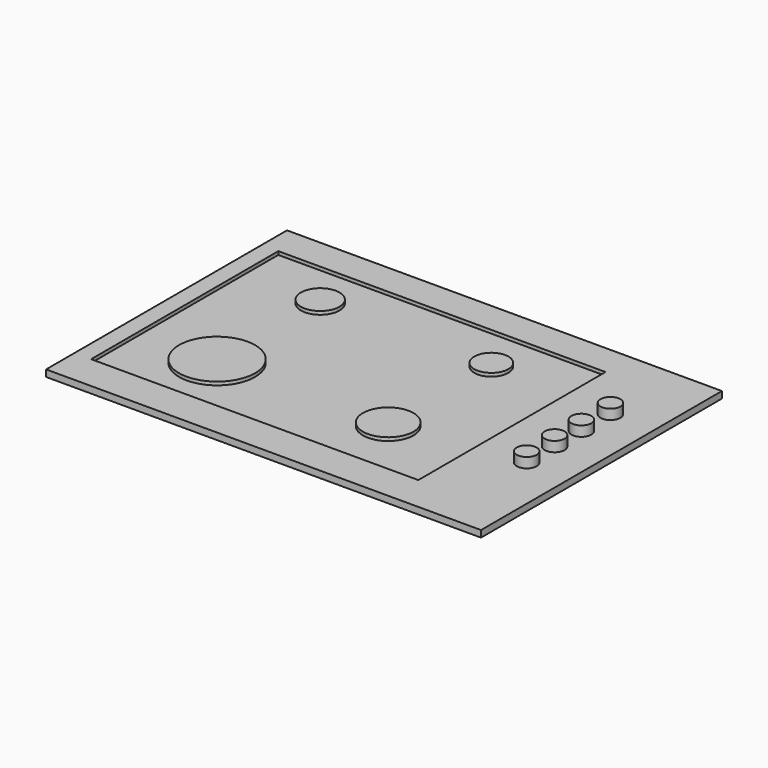
from build123d import *

# Parameters (mm, degrees)
F0_W     = 650
F0_H     = 450
F0_R     = 14.865454
F0_W_2   = 488.997654
F0_H_2   = 349.666808
F1_DEPTH = 10
F0_R_2   = 56.832951
F0_R_3   = 37.769343
F0_R_4   = 28.854156
F0_R_5   = 25.491264
F2_DEPTH = 5
F3_DEPTH = 10
F4_DEPTH = 25


with BuildPart() as f1:
    # F0 (on Top) → F1 (new body)
    with BuildSketch(Plane.XY):
        with Locations((36.786486, -131.776476)):
            Rectangle(F0_W, F0_H)
        with Locations((296.833038, -190.268785)):
            Circle(F0_R, mode=Mode.SUBTRACT)
        with Locations((296.833038, -138.121739)):
            Circle(F0_R, mode=Mode.SUBTRACT)
        with Locations((-18.782042, -128.970219)):
            Rectangle(F0_W_2, F0_H_2, mode=Mode.SUBTRACT)
        with Locations((296.833038, -88.088758)):
            Circle(F0_R, mode=Mode.SUBTRACT)
        with Locations((296.833038, -33.827644)):
            Circle(F0_R, mode=Mode.SUBTRACT)
    extrude(amount=F1_DEPTH)

    # F0 (on Top) → F2 (join)
    with BuildSketch(Plane.XY):
        with Locations((-18.782042, -128.970219)):
            Rectangle(F0_W_2, F0_H_2)
        with Locations((-148.592174, -211.847812)):
            Circle(F0_R_2, mode=Mode.SUBTRACT)
        with Locations((107.138157, -211.847812)):
            Circle(F0_R_3, mode=Mode.SUBTRACT)
        with Locations((-148.592174, -19.205136)):
            Circle(F0_R_4, mode=Mode.SUBTRACT)
        with Locations((107.138157, -19.205136)):
            Circle(F0_R_5, mode=Mode.SUBTRACT)
    extrude(amount=F2_DEPTH)

    # F0 (on Top) → F3 (join)
    with BuildSketch(Plane.XY):
        with Locations((-148.592174, -19.205136)):
            Circle(F0_R_4)
        with Locations((107.138157, -19.205136)):
            Circle(F0_R_5)
        with Locations((107.138157, -211.847812)):
            Circle(F0_R_3)
        with Locations((-148.592174, -211.847812)):
            Circle(F0_R_2)
    extrude(amount=F3_DEPTH)

    # F0 (on Top) → F4 (join)
    with BuildSketch(Plane.XY):
        with Locations((296.833038, -33.827644)):
            Circle(F0_R)
        with Locations((296.833038, -88.088758)):
            Circle(F0_R)
        with Locations((296.833038, -138.121739)):
            Circle(F0_R)
        with Locations((296.833038, -190.268785)):
            Circle(F0_R)
    extrude(amount=F4_DEPTH)


solid = f1.part
